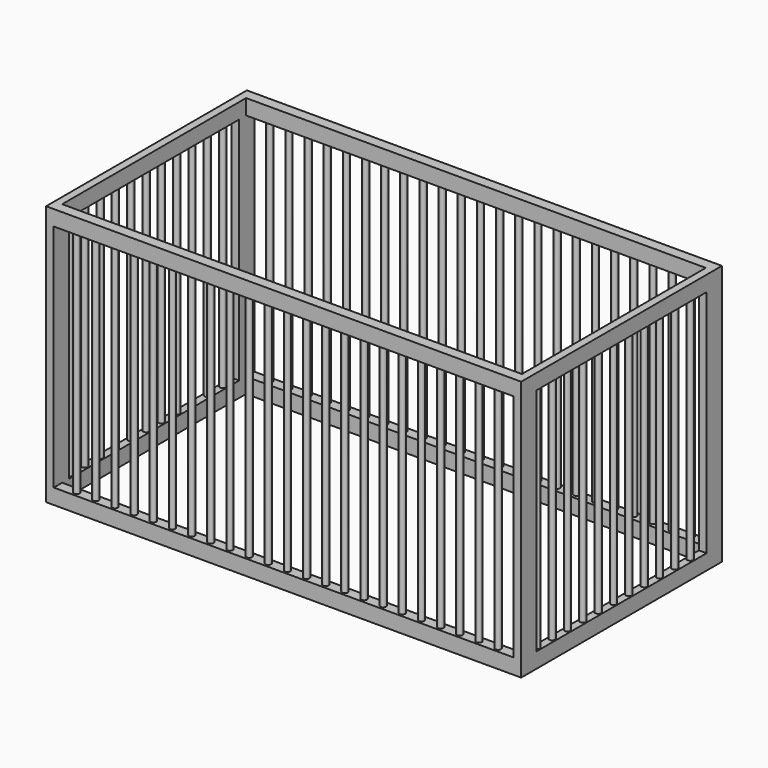
from build123d import *

# Parameters (mm, degrees)
F0_W     = 1240
F0_H     = 655
F0_W_2   = 1200
F0_H_2   = 600
F1_DEPTH = 40
F3_DEPTH = 600
F4_R     = 7.5
F5_DEPTH = 600
F6_W     = 1240
F6_H     = 655
F6_W_2   = 1200
F6_H_2   = 600
F7_DEPTH = 40


with BuildPart() as f1:
    # F0 (on Top) → F1 (new body)
    with BuildSketch(Plane.XY):
        Rectangle(F0_W, F0_H)
        Rectangle(F0_W_2, F0_H_2, mode=Mode.SUBTRACT)
    extrude(amount=F1_DEPTH)

    # F2 (on face) → F3 (join)
    with BuildSketch(Plane.XY.offset(40)):
        Polygon((-600, 327.5), (-620, 327.5), (-620, 277.5), (-600, 277.5), (-600, 300), align=None)
        Polygon((-600, -277.5), (-620, -277.5), (-620, -327.5), (-600, -327.5), (-600, -300), align=None)
        Polygon((620, 327.5), (600, 327.5), (600, 300), (600, 277.5), (620, 277.5), align=None)
        Polygon((620, -277.5), (600, -277.5), (600, -300), (600, -327.5), (620, -327.5), align=None)
    extrude(amount=F3_DEPTH)

    # F4 (on face) → F5 (join)
    with BuildSketch(Plane.XY.offset(40)):
        with Locations((-550, -315)):
            Circle(F4_R)
        with Locations((-500, -315)):
            Circle(F4_R)
        with Locations((-450, -315)):
            Circle(F4_R)
        with Locations((-400, -315)):
            Circle(F4_R)
        with Locations((-350, -315)):
            Circle(F4_R)
        with Locations((-300, -315)):
            Circle(F4_R)
        with Locations((-250, -315)):
            Circle(F4_R)
        with Locations((-200, -315)):
            Circle(F4_R)
        with Locations((-150, -315)):
            Circle(F4_R)
        with Locations((-100, -315)):
            Circle(F4_R)
        with Locations((-50, -315)):
            Circle(F4_R)
        with Locations((0, -315)):
            Circle(F4_R)
        with Locations((50, -315)):
            Circle(F4_R)
        with Locations((100, -315)):
            Circle(F4_R)
        with Locations((150, -315)):
            Circle(F4_R)
        with Locations((200, -315)):
            Circle(F4_R)
        with Locations((250, -315)):
            Circle(F4_R)
        with Locations((300, -315)):
            Circle(F4_R)
        with Locations((350, -315)):
            Circle(F4_R)
        with Locations((400, -315)):
            Circle(F4_R)
        with Locations((450, -315)):
            Circle(F4_R)
        with Locations((500, -315)):
            Circle(F4_R)
        with Locations((550, -315)):
            Circle(F4_R)
        with Locations((-500, 315)):
            Circle(F4_R)
        with Locations((-550, 315)):
            Circle(F4_R)
        with Locations((150, 315)):
            Circle(F4_R)
        with Locations((0, 315)):
            Circle(F4_R)
        with Locations((250, 315)):
            Circle(F4_R)
        with Locations((-400, 315)):
            Circle(F4_R)
        with Locations((450, 315)):
            Circle(F4_R)
        with Locations((100, 315)):
            Circle(F4_R)
        with Locations((500, 315)):
            Circle(F4_R)
        with Locations((-100, 315)):
            Circle(F4_R)
        with Locations((-450, 315)):
            Circle(F4_R)
        with Locations((400, 315)):
            Circle(F4_R)
        with Locations((50, 315)):
            Circle(F4_R)
        with Locations((-300, 315)):
            Circle(F4_R)
        with Locations((-50, 315)):
            Circle(F4_R)
        with Locations((550, 315)):
            Circle(F4_R)
        with Locations((300, 315)):
            Circle(F4_R)
        with Locations((-200, 315)):
            Circle(F4_R)
        with Locations((200, 315)):
            Circle(F4_R)
        with Locations((350, 315)):
            Circle(F4_R)
        with Locations((-250, 315)):
            Circle(F4_R)
        with Locations((-150, 315)):
            Circle(F4_R)
        with Locations((-350, 315)):
            Circle(F4_R)
        with Locations((-610, -263.75)):
            Circle(F4_R)
        with Locations((-610, -213.75)):
            Circle(F4_R)
        with Locations((-610, -163.75)):
            Circle(F4_R)
        with Locations((-610, -113.75)):
            Circle(F4_R)
        with Locations((-610, -63.75)):
            Circle(F4_R)
        with Locations((-610, -13.75)):
            Circle(F4_R)
        with Locations((-610, 36.25)):
            Circle(F4_R)
        with Locations((-610, 86.25)):
            Circle(F4_R)
        with Locations((-610, 136.25)):
            Circle(F4_R)
        with Locations((-610, 186.25)):
            Circle(F4_R)
        with Locations((-610, 236.25)):
            Circle(F4_R)
        with Locations((610, -263.75)):
            Circle(F4_R)
        with Locations((610, -213.75)):
            Circle(F4_R)
        with Locations((610, 136.25)):
            Circle(F4_R)
        with Locations((610, 236.25)):
            Circle(F4_R)
        with Locations((610, -113.75)):
            Circle(F4_R)
        with Locations((610, 86.25)):
            Circle(F4_R)
        with Locations((610, 186.25)):
            Circle(F4_R)
        with Locations((610, 36.25)):
            Circle(F4_R)
        with Locations((610, -13.75)):
            Circle(F4_R)
        with Locations((610, -63.75)):
            Circle(F4_R)
        with Locations((610, -163.75)):
            Circle(F4_R)
    extrude(amount=F5_DEPTH)

    # F6 (on face) → F7 (join)
    with BuildSketch(Plane.XY.offset(640)):
        Rectangle(F6_W, F6_H)
        Rectangle(F6_W_2, F6_H_2, mode=Mode.SUBTRACT)
    extrude(amount=F7_DEPTH)


solid = f1.part
